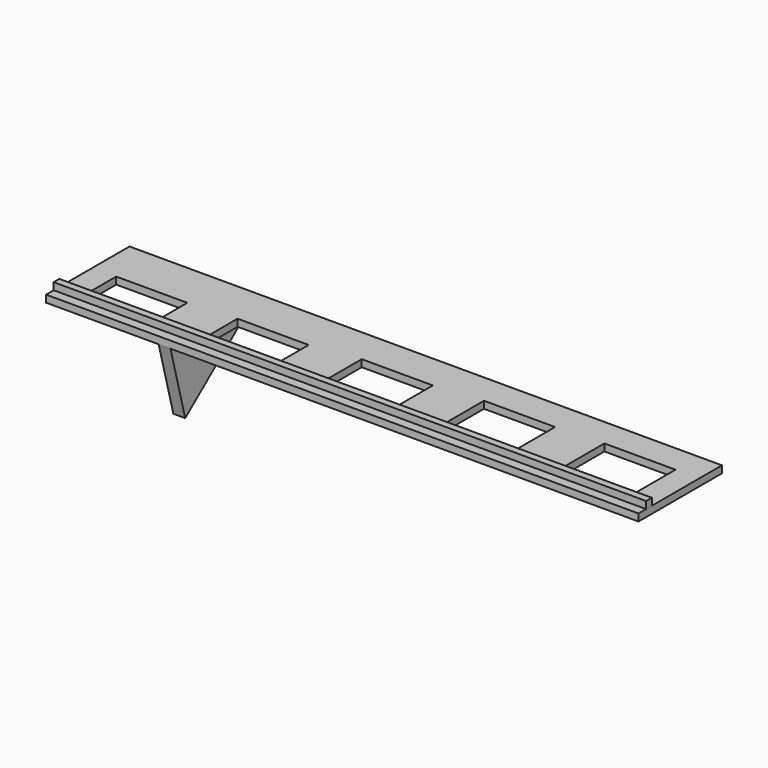
from build123d import *

# Parameters (mm, degrees)
F0_W     = 250
F0_H     = 44
F0_W_2   = 30
F0_H_2   = 15.5
F0_H_3   = 17
F0_H_4   = 20
F0_H_5   = 22
F0_H_6   = 23
F1_DEPTH = 3
F2_W     = 250
F2_H     = 3
F3_DEPTH = 3
F6_DEPTH = 2.5


with BuildPart() as f1:
    # F0 (on Top) → F1 (new body)
    with BuildSketch(Plane.XY):
        with Locations((125, 22)):
            Rectangle(F0_W, F0_H)
        with Locations((25, 16.75)):
            Rectangle(F0_W_2, F0_H_2, mode=Mode.SUBTRACT)
        with Locations((75, 17.5)):
            Rectangle(F0_W_2, F0_H_3, mode=Mode.SUBTRACT)
        with Locations((125, 19)):
            Rectangle(F0_W_2, F0_H_4, mode=Mode.SUBTRACT)
        with Locations((175, 20)):
            Rectangle(F0_W_2, F0_H_5, mode=Mode.SUBTRACT)
        with Locations((225, 20.5)):
            Rectangle(F0_W_2, F0_H_6, mode=Mode.SUBTRACT)
    extrude(amount=F1_DEPTH)


with BuildPart() as f3:
    # F2 (on face) → F3 (new body)
    with BuildSketch(Plane.XY.offset(3)):
        with Locations((125, 5.5)):
            Rectangle(F2_W, F2_H)
    extrude(amount=F3_DEPTH)


with BuildPart() as f6:
    # F5 (on offset) → F6 (new body, symmetric)
    with BuildSketch(Plane.YZ.offset(50)):
        Polygon((44, 0), (0, 0), (7.764571, -28.977775), align=None)
    extrude(amount=F6_DEPTH, both=True)


solid = Compound([f1.part, f3.part, f6.part])
